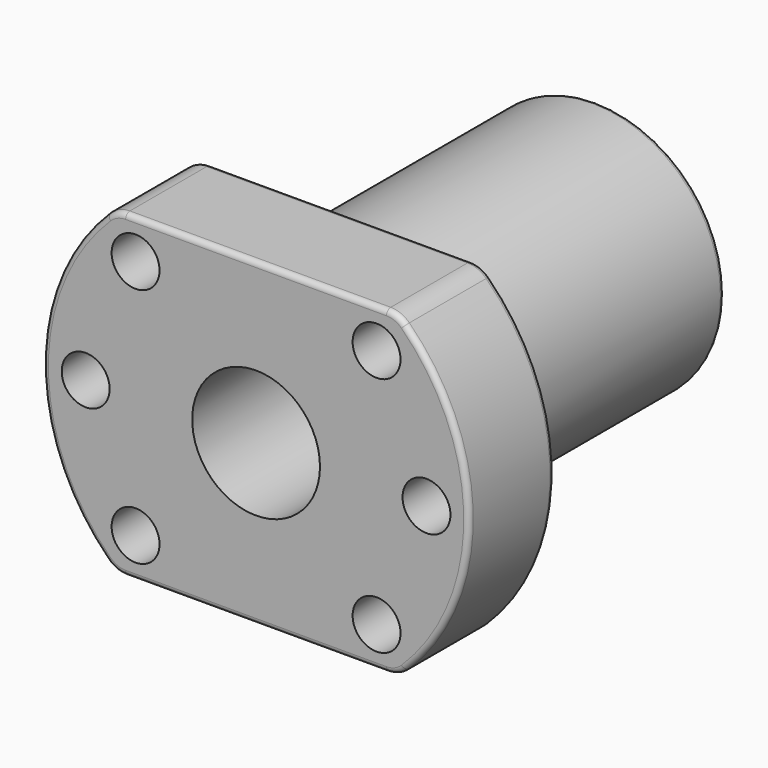
from build123d import *

# Parameters (mm, degrees)
F1_R     = 12
F1_R_2   = 6
F2_DEPTH = 40
F1_R_3   = 2.25
F3_DEPTH = 10
F4_R     = 2.5
F5_R     = 0.5


with BuildPart() as f2:
    # F1 (on Front) → F2 (new body)
    with BuildSketch(Plane.XZ):
        Circle(F1_R)
        Circle(F1_R_2, mode=Mode.SUBTRACT)
    extrude(amount=-F2_DEPTH)

    # F1 (on Front) → F3 (join)
    with BuildSketch(Plane.XZ):
        with BuildLine():
            Line((13.228757, 15), (-13.228757, 15))
            ThreePointArc((-13.228757, 15), (-20, 0), (-13.228757, -15))
            Line((-13.228757, -15), (13.228757, -15))
            ThreePointArc((13.228757, -15), (20, 0), (13.228757, 15))
        make_face()
        with Locations((-11.313708, -11.313708)):
            Circle(F1_R_3, mode=Mode.SUBTRACT)
        with Locations((-16, 0)):
            Circle(F1_R_3, mode=Mode.SUBTRACT)
        Circle(F1_R, mode=Mode.SUBTRACT)
        with Locations((11.313708, -11.313708)):
            Circle(F1_R_3, mode=Mode.SUBTRACT)
        with Locations((16, 0)):
            Circle(F1_R_3, mode=Mode.SUBTRACT)
        with Locations((-11.313708, 11.313708)):
            Circle(F1_R_3, mode=Mode.SUBTRACT)
        with Locations((11.313708, 11.313708)):
            Circle(F1_R_3, mode=Mode.SUBTRACT)
    extrude(amount=-F3_DEPTH)

    # F4
    f4_edges = [f2.edges().sort_by_distance(p)[0] for p in [
        (-13.228757, 5, 15),
        (-13.228757, 5, -15),
        (13.228757, 5, 15),
        (13.228757, 5, -15),
    ]]
    fillet(f4_edges, radius=F4_R)

    # F5
    f5_edges = [f2.edges().sort_by_distance(p)[0] for p in [
        (20, 10, 0),
        (20, 0, 0),
        (-12, 10, 0),
        (-12, 40, 0),
    ]]
    fillet(f5_edges, radius=F5_R)


solid = f2.part
